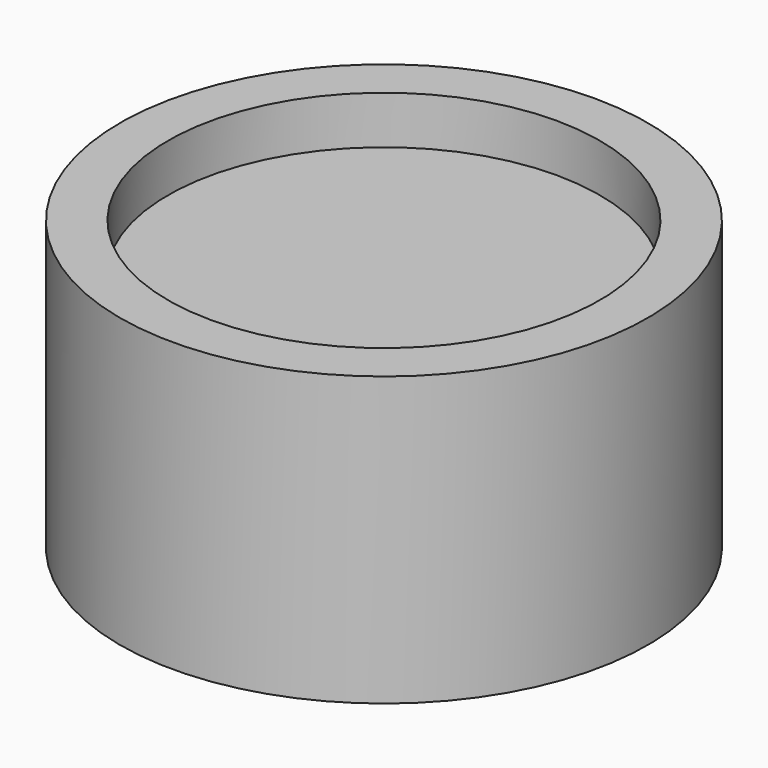
from build123d import *

# Parameters (mm, degrees)
F0_W   = 228.6
F0_H   = 203.2
F0_W_2 = 25.4


with BuildPart() as f1:
    # F0 (on Right) → F1 (revolve)
    with BuildSketch(Plane.YZ):
        with Locations((114.3, 101.6)):
            Rectangle(F0_W, F0_H)
        with Locations((241.3, 101.6)):
            Rectangle(F0_W_2, F0_H)
        Polygon((254, 0), (228.6, 0), (228.6, -50.8), (279.4, -50.8), (279.4, 254), (228.6, 254), (228.6, 203.2), (254, 203.2), align=None)
    revolve(axis=Axis((0, 0, 101.6), (0, 0, 1)))


solid = f1.part
